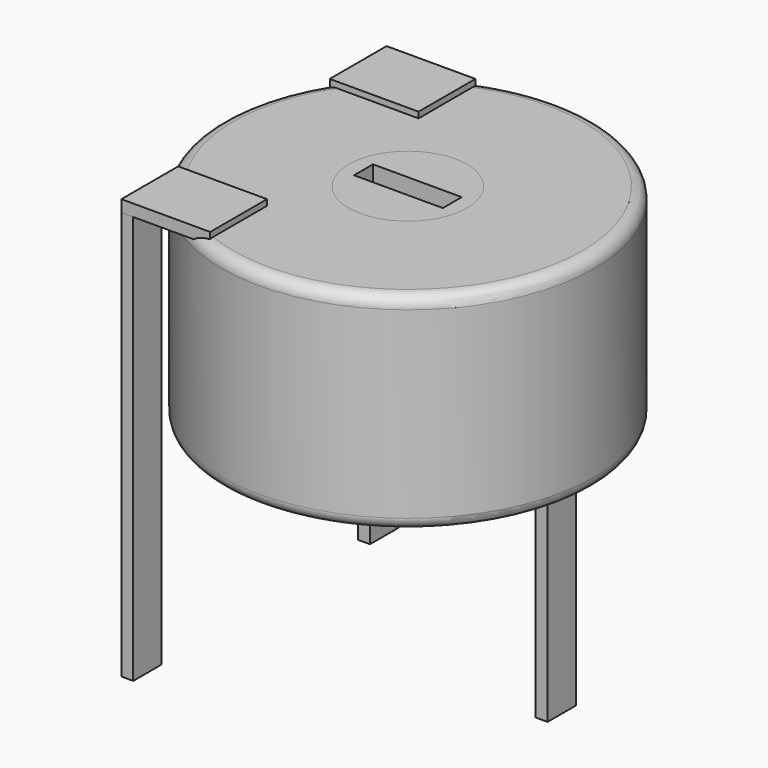
from build123d import *

# Parameters (mm, degrees)
SKETCH003_W       = 0.2
SKETCH003_H       = 0.6
PAD002_DEPTH      = 3.9
PAD002_DEPTH_BACK = 3
SKETCH004_R       = 1
SKETCH004_W       = 1.5
SKETCH004_H       = 0.4
PAD003_DEPTH      = 3.5
SKETCH_R          = 3.15
SKETCH_R_2        = 1
PAD_DEPTH         = 3.5
FILLET_R          = 0.2
SKETCH005_W       = 1.5
SKETCH005_H       = 1.2
PAD004_DEPTH      = 0.2


with BuildPart() as pad002:
    # Sketch003 → Pad002 (new body, two sides)
    with BuildSketch(Plane(origin=(0, 5, 0), x_dir=(1, 0, 0), z_dir=(0, 0, 1))) as pad002_sk:
        Rectangle(SKETCH003_W, SKETCH003_H)
        with Locations((5, -2.5)):
            Rectangle(SKETCH003_W, SKETCH003_H)
        with Locations((0, -5)):
            Rectangle(SKETCH003_W, SKETCH003_H)
    extrude(amount=PAD002_DEPTH)
    extrude(pad002_sk.sketch, amount=-PAD002_DEPTH_BACK)


with BuildPart() as pad003:
    # Sketch004 → Pad003 (new body)
    with BuildSketch(Plane(origin=(0, 5, 0.5), x_dir=(1, 0, 0), z_dir=(0, 0, 1))):
        with Locations((2.5, -2.5)):
            Circle(SKETCH004_R)
        with Locations((2.5, -2.5)):
            Rectangle(SKETCH004_W, SKETCH004_H, mode=Mode.SUBTRACT)
    extrude(amount=PAD003_DEPTH)


with BuildPart() as fillet_body:
    # Sketch → Pad (new body)
    with BuildSketch(Plane(origin=(0, 5, 0.5), x_dir=(1, 0, 0), z_dir=(0, 0, 1))):
        with Locations((2.5, -2.5)):
            Circle(SKETCH_R)
        with Locations((2.5, -2.5)):
            Circle(SKETCH_R_2, mode=Mode.SUBTRACT)
    extrude(amount=PAD_DEPTH)

    # Fillet
    fillet_edges = [fillet_body.edges().sort_by_distance(p)[0] for p in [
        (-0.65, 2.5, 0.5),
        (-0.65, 2.5, 4),
    ]]
    fillet(fillet_edges, radius=FILLET_R)


with BuildPart() as pad004:
    # Sketch005 → Pad004 (new body)
    with BuildSketch(Plane(origin=(0, 5, 3.9), x_dir=(1, 0, 0), z_dir=(0, 0, 1))):
        with Locations((0.65, -0.3)):
            Rectangle(SKETCH005_W, SKETCH005_H)
        with Locations((0.65, -4.7)):
            Rectangle(SKETCH005_W, SKETCH005_H)
    extrude(amount=PAD004_DEPTH)


solid = Compound([pad002.part, pad003.part, fillet_body.part, pad004.part])
